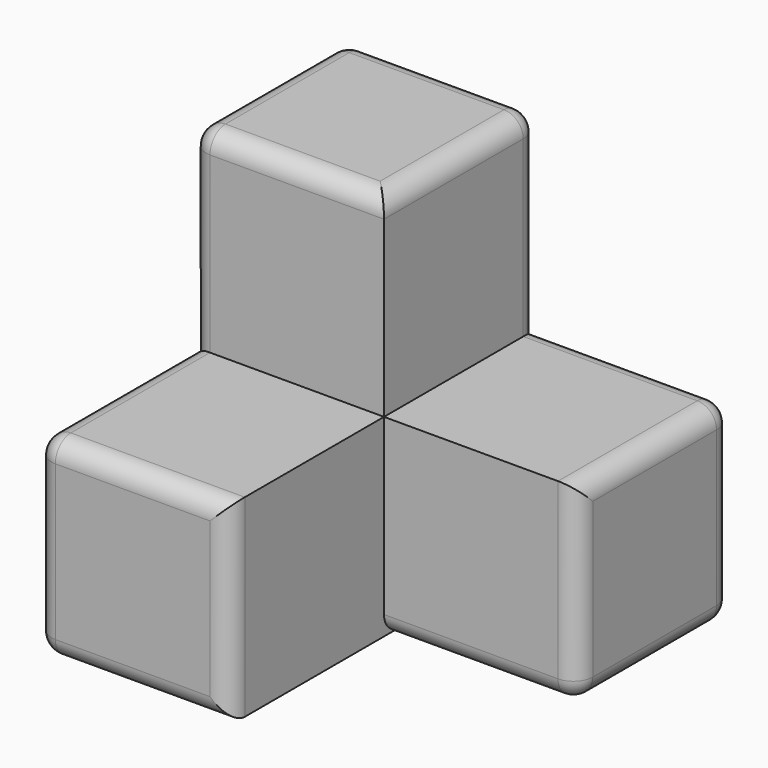
from build123d import *

# Parameters (mm, degrees)
F0_W     = 50.8
F0_H     = 50.8
F1_DEPTH = 50.8
F3_DEPTH = 25.4
F4_W     = 25.4
F4_H     = 25.4
F5_DEPTH = 25.4
F6_R     = 2.54


with BuildPart() as f1:
    # F0 (on Front) → F1 (new body)
    with BuildSketch(Plane.XZ):
        with Locations((25.4, 25.4)):
            Rectangle(F0_W, F0_H)
    extrude(amount=F1_DEPTH)

    # F2 (on face) → F3 (cut)
    with BuildSketch(Plane.XY.offset(50.8)):
        Polygon((50.8, 0), (25.4, 0), (25.4, -25.4), (0, -25.4), (0, -50.8), (50.8, -50.8), align=None)
    extrude(amount=-F3_DEPTH, mode=Mode.SUBTRACT)

    # F4 (on face) → F5 (cut)
    with BuildSketch(Plane.XY.offset(25.4)):
        with Locations((38.1, -38.1)):
            Rectangle(F4_W, F4_H)
    extrude(amount=-F5_DEPTH, mode=Mode.SUBTRACT)

    # F6
    f6_edges = [f1.edges().sort_by_distance(p)[0] for p in [
        (50.8, -12.7, 25.4),
        (0, -38.1, 25.4),
        (25.4, -12.7, 50.8),
        (12.7, -25.4, 50.8),
        (0, -12.7, 50.8),
        (12.7, 0, 50.8),
        (38.1, 0, 25.4),
        (25.4, 0, 38.1),
        (12.7, -50.8, 25.4),
        (12.7, -50.8, 0),
        (38.1, -25.4, 0),
        (50.8, -25.4, 12.7),
        (25.4, -50.8, 12.7),
        (0, -50.8, 12.7),
        (25.4, 0, 0),
        (50.8, -12.7, 0),
        (0, 0, 25.4),
        (0, -25.4, 0),
        (50.8, 0, 12.7),
        (0, -25.4, 38.1),
    ]]
    fillet(f6_edges, radius=F6_R)


solid = f1.part
